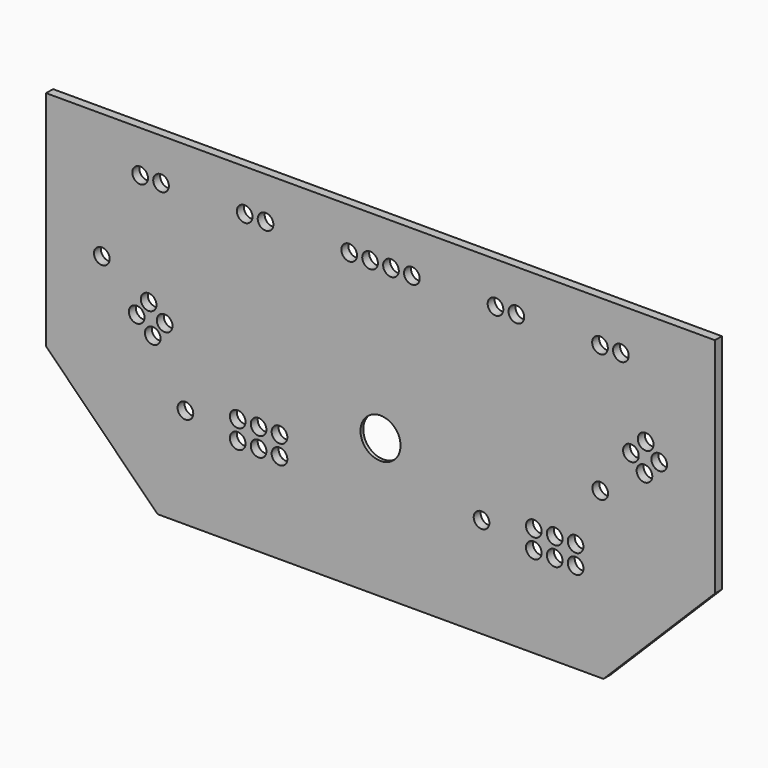
from build123d import *

# Parameters (mm, degrees)
F0_R     = 14.2875
F0_W     = 149.225
F0_H     = 149.225
F1_DEPTH = 15.875
F2_START = 9.525
F0_R_2   = 36.5125
F2_DEPTH = 6.35


with BuildPart() as f1:
    # F0 (on Front) → F1 (new body)
    with BuildSketch(Plane.XZ):
        Polygon((609.6, 0), (-609.6, 0), (-609.6, -406.4), (-406.4, -609.5745491936), (406.4, -609.5745491936), (609.6, -406.4), align=None)
        with Locations((-355.6, -427.0120491936)):
            Circle(F0_R, mode=Mode.SUBTRACT)
        with Locations((-415.2417373546, -326.1154076089)):
            Circle(F0_R, mode=Mode.SUBTRACT)
        with Locations((-260.35, -444.4745491936)):
            Circle(F0_R, mode=Mode.SUBTRACT)
        with Locations((-222.25, -444.4745491936)):
            Circle(F0_R, mode=Mode.SUBTRACT)
        with Locations((-184.15, -444.4745491936)):
            Circle(F0_R, mode=Mode.SUBTRACT)
        with Locations((-260.35, -409.5495491936)):
            Circle(F0_R, mode=Mode.SUBTRACT)
        with Locations((-222.25, -409.5495491936)):
            Circle(F0_R, mode=Mode.SUBTRACT)
        with Locations((-184.15, -409.5495491936)):
            Circle(F0_R, mode=Mode.SUBTRACT)
        with Locations((184.15, -427.0120491936)):
            Circle(F0_R, mode=Mode.SUBTRACT)
        with Locations((279.4, -444.4745491936)):
            Circle(F0_R, mode=Mode.SUBTRACT)
        with Locations((279.4, -409.5495491936)):
            Circle(F0_R, mode=Mode.SUBTRACT)
        with Locations((0, -355.5745491936)):
            Rectangle(F0_W, F0_H, mode=Mode.SUBTRACT)
        with Locations((317.5, -444.4745491936)):
            Circle(F0_R, mode=Mode.SUBTRACT)
        with Locations((355.6, -444.4745491936)):
            Circle(F0_R, mode=Mode.SUBTRACT)
        with Locations((317.5, -409.5495491936)):
            Circle(F0_R, mode=Mode.SUBTRACT)
        with Locations((355.6, -409.5495491936)):
            Circle(F0_R, mode=Mode.SUBTRACT)
        with Locations((400.4724875181, -309.6562085607)):
            Circle(F0_R, mode=Mode.SUBTRACT)
        with Locations((-508, -228.6)):
            Circle(F0_R, mode=Mode.SUBTRACT)
        with Locations((-444.5, -301.7112262669)):
            Circle(F0_R, mode=Mode.SUBTRACT)
        with Locations((-393.4358199474, -298.8343227509)):
            Circle(F0_R, mode=Mode.SUBTRACT)
        with Locations((-422.6940825928, -274.4301414089)):
            Circle(F0_R, mode=Mode.SUBTRACT)
        with Locations((-438.15, -76.2)):
            Circle(F0_R, mode=Mode.SUBTRACT)
        with Locations((-400.05, -76.2)):
            Circle(F0_R, mode=Mode.SUBTRACT)
        with Locations((-247.65, -76.2)):
            Circle(F0_R, mode=Mode.SUBTRACT)
        with Locations((-209.55, -76.2)):
            Circle(F0_R, mode=Mode.SUBTRACT)
        with Locations((-57.15, -76.2)):
            Circle(F0_R, mode=Mode.SUBTRACT)
        with Locations((-19.05, -76.2)):
            Circle(F0_R, mode=Mode.SUBTRACT)
        with Locations((456.4161513597, -230.8944980995)):
            Circle(F0_R, mode=Mode.SUBTRACT)
        with Locations((481.1103089784, -255.5917490498)):
            Circle(F0_R, mode=Mode.SUBTRACT)
        with Locations((508, -228.6)):
            Circle(F0_R, mode=Mode.SUBTRACT)
        with Locations((483.3058423812, -203.9027490498)):
            Circle(F0_R, mode=Mode.SUBTRACT)
        with Locations((19.05, -76.2)):
            Circle(F0_R, mode=Mode.SUBTRACT)
        with Locations((57.15, -76.2)):
            Circle(F0_R, mode=Mode.SUBTRACT)
        with Locations((209.55, -76.2)):
            Circle(F0_R, mode=Mode.SUBTRACT)
        with Locations((247.65, -76.2)):
            Circle(F0_R, mode=Mode.SUBTRACT)
        with Locations((400.05, -76.2)):
            Circle(F0_R, mode=Mode.SUBTRACT)
        with Locations((438.15, -76.2)):
            Circle(F0_R, mode=Mode.SUBTRACT)
    extrude(amount=F1_DEPTH)

    # F0 (on Front) → F2 (join)
    with BuildSketch(Plane.XZ.offset(F2_START)):
        with Locations((0, -355.5745491936)):
            Rectangle(F0_W, F0_H)
        with Locations((0, -355.5745491936)):
            Circle(F0_R_2, mode=Mode.SUBTRACT)
    extrude(amount=F2_DEPTH)


solid = f1.part
